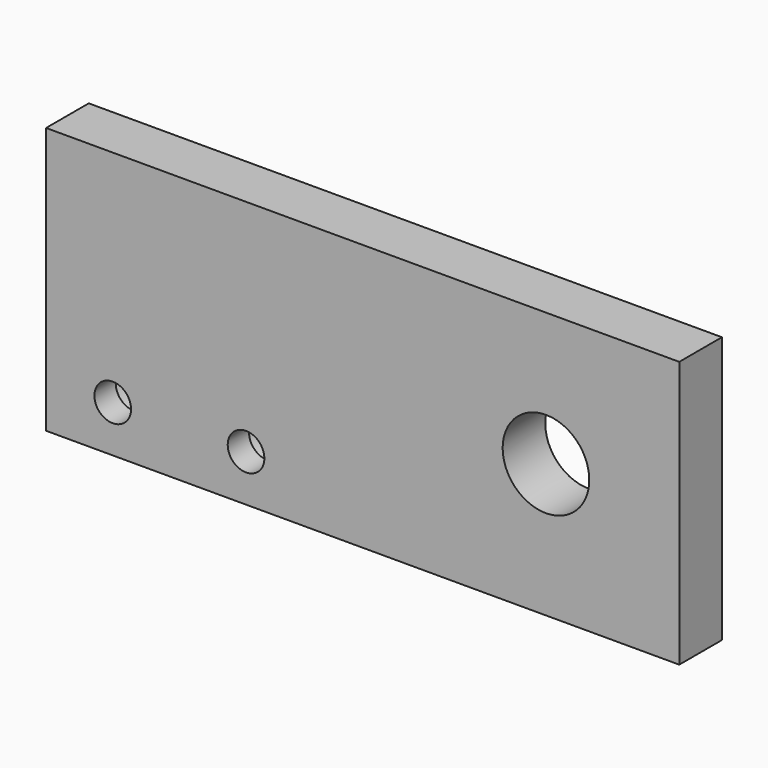
from build123d import *

# Parameters (mm, degrees)
F0_W           = 95
F0_H           = 40
F1_DEPTH       = 8
F2_D           = 5.5
F2_CBORE_D     = 9.75
F2_CBORE_DEPTH = 4
F3_D           = 13


with BuildPart() as f1:
    # F0 (on Front) → F1 (new body)
    with BuildSketch(Plane.XZ):
        Rectangle(F0_W, F0_H)
    extrude(amount=F1_DEPTH)

    # F2 (through all)
    with Locations(Plane(origin=(0, 0, 0), x_dir=(1, 0, 0), z_dir=(0, 1, 0))):
        with Locations((-17.5, 13), (-37.5, 13)):
            CounterBoreHole(F2_D / 2, F2_CBORE_D / 2, F2_CBORE_DEPTH)

    # F3 (through all)
    with Locations(Plane(origin=(0, 0, 0), x_dir=(1, 0, 0), z_dir=(0, 1, 0))):
        with Locations((27.5, 0)):
            Hole(F3_D / 2)


solid = f1.part
